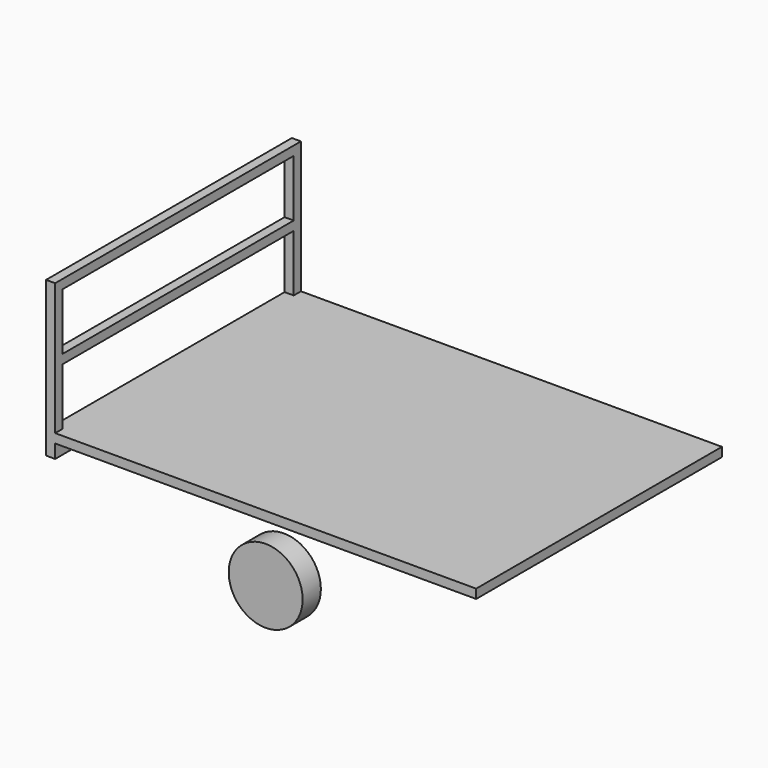
from build123d import *

# Parameters (mm, degrees)
F0_W          = 1850
F0_H          = 1350
F1_DEPTH      = 40
F2_W          = 40
F2_H          = 1350
F3_DEPTH      = 100
F3_DEPTH_BACK = 580
F4_R          = 162.5
F5_DEPTH      = 100
F6_R          = 161.3239006066
F7_DEPTH      = 100
F8_W          = 1269.9743546546
F8_H          = 250
F9_DEPTH      = 100
F10_DEPTH     = 100


with BuildPart() as f1:
    # F0 (on Top) → F1 (new body)
    with BuildSketch(Plane.XY):
        with Locations((925, 675)):
            Rectangle(F0_W, F0_H)
    extrude(amount=-F1_DEPTH)

    # F2 (on Top) → F3 (join, two sides)
    with BuildSketch(Plane.XY) as f3_sk:
        with Locations((-20, 675)):
            Rectangle(F2_W, F2_H)
    extrude(amount=-F3_DEPTH)
    extrude(f3_sk.sketch, amount=F3_DEPTH_BACK)

    # F8 (on face) → F9 (cut)
    with BuildSketch(Plane(origin=(-40, 0, 0), x_dir=(0, -1, 0), z_dir=(-1, 0, 0))):
        with Locations((-675.186811015, 415)):
            Rectangle(F8_W, F8_H)
    extrude(amount=-F9_DEPTH, mode=Mode.SUBTRACT)

    # F8 (on face) → F10 (cut)
    with BuildSketch(Plane(origin=(-40, 0, 0), x_dir=(0, -1, 0), z_dir=(-1, 0, 0))):
        with Locations((-675.186811015, 415)):
            Rectangle(F8_W, F8_H)
        with Locations((-675.186811015, 125)):
            Rectangle(F8_W, F8_H)
    extrude(amount=-F10_DEPTH, mode=Mode.SUBTRACT)


with BuildPart() as f5:
    # F4 (on face) → F5 (new body)
    with BuildSketch(Plane.XZ):
        with Locations((925, -290)):
            Circle(F4_R)
    extrude(amount=-F5_DEPTH)


with BuildPart() as f7:
    # F6 (on face) → F7 (new body)
    with BuildSketch(Plane(origin=(0, 1350, 0), x_dir=(-1, 0, 0), z_dir=(0, 1, 0))):
        with Locations((-925, -289.0985906124)):
            Circle(F6_R)
    extrude(amount=-F7_DEPTH)


solid = Compound([f1.part, f5.part, f7.part])
